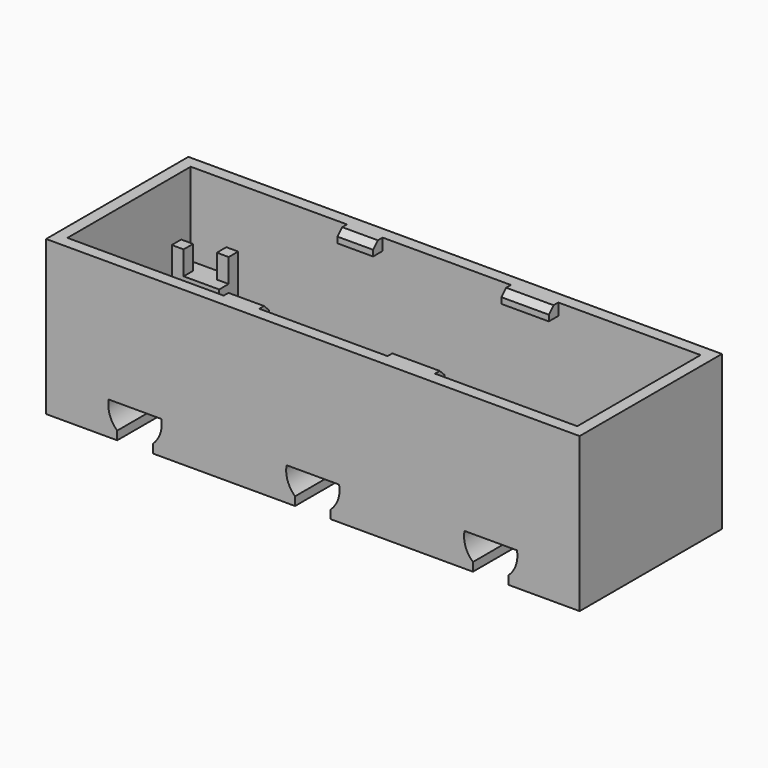
from build123d import *

# Parameters (mm, degrees)
SKETCH_W                = 45
SKETCH_H                = 15
PAD_DEPTH               = 3.5
POCKET_DEPTH            = 15.001
LINEARPATTERN_COUNT     = 3
LINEARPATTERN_PITCH     = 15
SKETCH002_W             = 4
SKETCH002_H             = 2
PAD001_DEPTH            = 2.5
SKETCH003_W             = 45
SKETCH003_H             = 15
SKETCH003_W_2           = 43
SKETCH003_H_2           = 13
PAD002_DEPTH            = 9.5
SKETCH004_W             = 1
SKETCH004_H             = 1
PAD003_DEPTH            = 2
SKETCH004_MIRRORED_2_W  = 1
SKETCH004_MIRRORED_2_H  = 1
PAD003_MIRRORED_2_DEPTH = 2
SKETCH005_W             = 3
SKETCH005_H             = 1
SKETCH005_W_2           = 4
PAD004_DEPTH            = 1
CHAMFER_SIZE            = 0.5


with BuildPart() as part:
    # Sketch → Pad (new body)
    with BuildSketch(Plane.XY):
        Rectangle(SKETCH_W, SKETCH_H)
    extrude(amount=PAD_DEPTH)

    # Sketch001 (on Face3 of Pad) → Pocket (cut, through all)
    with BuildSketch(Plane.XZ.offset(7.5)):
        with BuildLine():
            Line((-16.5, 0.722949), (-16.5, 0))
            Line((-16.5, 0), (-13.5, 0))
            Line((-13.5, 0), (-13.5, 0.722949))
            ThreePointArc((-13.5, 0.722949), (-12.87226, 1.668412), (-12.785841, 2.8))
            Line((-17.214159, 2.8), (-12.785841, 2.8))
            ThreePointArc((-17.214159, 2.8), (-17.12774, 1.668412), (-16.5, 0.722949))
        make_face()
    pocket = extrude(amount=-POCKET_DEPTH, mode=Mode.SUBTRACT)

    # LinearPattern: Pocket ×3
    with Locations(*[(i * LINEARPATTERN_PITCH, 0, 0) for i in range(1, LINEARPATTERN_COUNT)]):
        add(pocket, mode=Mode.SUBTRACT)

    # Sketch002 (on Face22 of LinearPattern) → Pad001 (join)
    with BuildSketch(Plane.XY.offset(3.5)):
        with Locations((-19.5, 5.5)):
            Rectangle(SKETCH002_W, SKETCH002_H)
        with Locations((-19.5, -5.5)):
            Rectangle(SKETCH002_W, SKETCH002_H)
        with Locations((19.5, 5.5)):
            Rectangle(SKETCH002_W, SKETCH002_H)
        with Locations((19.5, -5.5)):
            Rectangle(SKETCH002_W, SKETCH002_H)
    extrude(amount=PAD001_DEPTH)

    # Sketch003 (on Face22 of Pad001) → Pad002 (join)
    with BuildSketch(Plane.XY.offset(3.5)):
        Rectangle(SKETCH003_W, SKETCH003_H)
        Rectangle(SKETCH003_W_2, SKETCH003_H_2, mode=Mode.SUBTRACT)
    extrude(amount=PAD002_DEPTH)

    # Sketch004 (on Face37 of Pad002) → Pad003 (join)
    with BuildSketch(Plane.XY.offset(6)):
        with Locations((-18, 6)):
            Rectangle(SKETCH004_W, SKETCH004_H)
        with Locations((-21, 5)):
            Rectangle(SKETCH004_W, SKETCH004_H)
    pad003 = extrude(amount=PAD003_DEPTH)

    # Sketch004 Mirrored 2 → Pad003 Mirrored 2 (add)
    with BuildSketch(Plane(origin=(0, 0, 6), x_dir=(-1, 0, 0), z_dir=(0, 0, -1))):
        with Locations((-18, 6)):
            Rectangle(SKETCH004_MIRRORED_2_W, SKETCH004_MIRRORED_2_H)
        with Locations((-21, 5)):
            Rectangle(SKETCH004_MIRRORED_2_W, SKETCH004_MIRRORED_2_H)
    pad003_mirrored_2 = extrude(amount=-PAD003_MIRRORED_2_DEPTH)

    # Mirrored001: Pad003, Pad003 Mirrored 2 across Sketch004 H_Axis
    add(pad003.mirror(Plane(origin=(0, 0, 6), x_dir=(0, 0, 1), z_dir=(0, 1, 0))))
    add(pad003_mirrored_2.mirror(Plane(origin=(0, 0, 6), x_dir=(0, 0, 1), z_dir=(0, 1, 0))))

    # Sketch005 (on Face32 of MultiTransform) → Pad004 (join)
    with BuildSketch(Plane.XZ.offset(-6.5)):
        with Locations((-6.82, 12.5)):
            Rectangle(SKETCH005_W, SKETCH005_H)
        with Locations((7.5, 12.5)):
            Rectangle(SKETCH005_W_2, SKETCH005_H)
    pad004 = extrude(amount=PAD004_DEPTH)

    # Mirrored002: Pad004 across XZ
    add(pad004.mirror(Plane.XZ))

    # Chamfer
    chamfer_edges = [part.edges().sort_by_distance(p)[0] for p in [
        (-6.82, 5.5, 13),
        (7.5, 5.5, 13),
        (7.5, -5.5, 13),
        (-6.82, -5.5, 13),
    ]]
    chamfer(chamfer_edges, length=CHAMFER_SIZE)


solid = part.part
